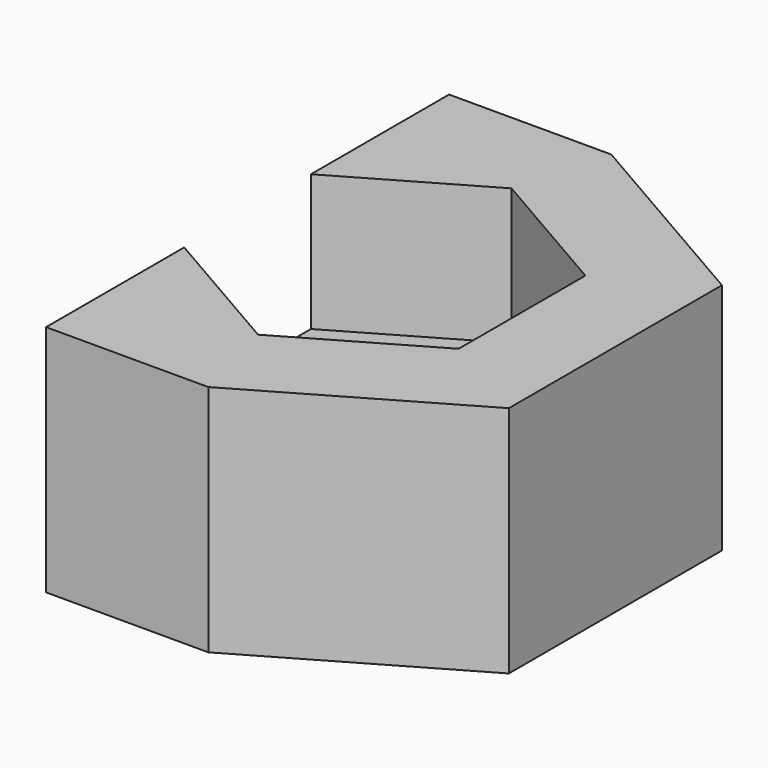
from build123d import *

# Parameters (mm, degrees)
PAD_DEPTH       = 6
SKETCH001_R     = 2.2
POCKET_DEPTH    = 6.001
POCKET001_DEPTH = 3.5


with BuildPart() as part:
    # Sketch → Pad (new body)
    with BuildSketch(Plane.XY):
        Polygon((-3.525, 6.470319), (-3.525, -6.470319), (0.643078, -6.470319), (5.925, -3.4208), (5.925, 3.4208), (0.643078, 6.470319), align=None)
    extrude(amount=PAD_DEPTH)

    # Sketch001 → Pocket (cut, through all)
    with BuildSketch(Plane.XY.offset(6)):
        Circle(SKETCH001_R)
    extrude(amount=-POCKET_DEPTH, mode=Mode.SUBTRACT)

    # Sketch002 → Pocket001 (cut)
    with BuildSketch(Plane.XY.offset(6)):
        Polygon((0, -4.070319), (3.525, -2.03516), (3.525, 2.03516), (0, 4.070319), (-3.525, 2.03516), (-3.525, -2.03516), align=None)
    extrude(amount=-POCKET001_DEPTH, mode=Mode.SUBTRACT)


solid = part.part
